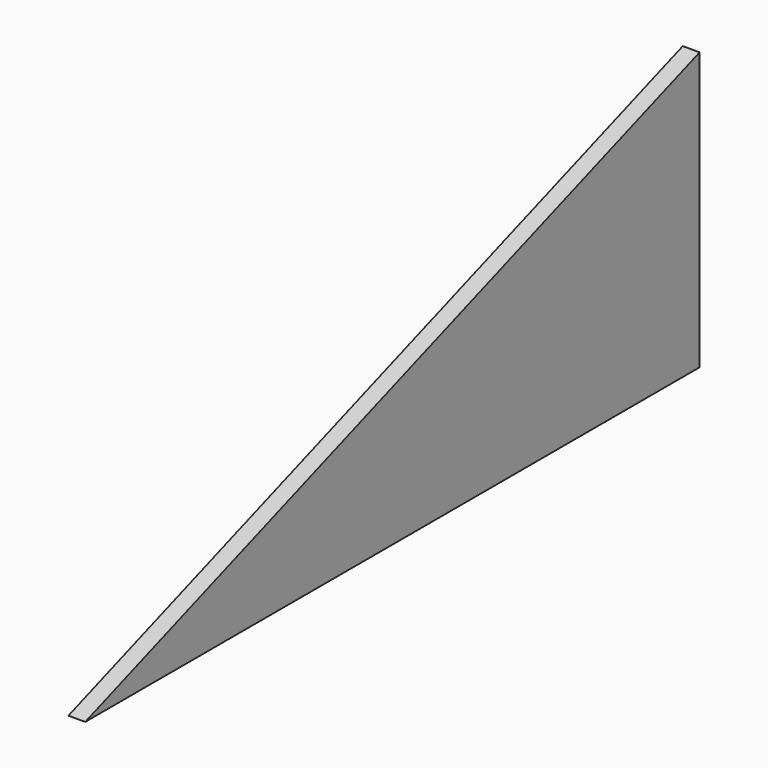
from build123d import *

# Parameters (mm, degrees)
F1_DEPTH = 19.05
F3_DEPTH = 25.4
F4_DEPTH = 3.175


with BuildPart() as f1:
    # F0 (on Right) → F1 (new body)
    with BuildSketch(Plane.YZ):
        with BuildLine():
            ThreePointArc((482.6, 127), (467.7210244843, 162.9210244843), (431.8, 177.8))
            Line((431.8, 177.8), (-482.6, -152.4))
            ThreePointArc((-482.6, -152.4), (-475.1605122421, -170.3605122421), (-457.2, -177.8))
            Line((-457.2, -177.8), (431.8, -177.8))
            ThreePointArc((431.8, -177.8), (467.7210244843, -162.9210244843), (482.6, -127))
            Line((482.6, -127), (482.6, 127))
        make_face()
    extrude(amount=F1_DEPTH)

    # F2 (on face) → F3 (cut)
    with BuildSketch(Plane.YZ.offset(19.05)):
        with BuildLine():
            Line((461.4467891453, 168.2517623063), (433.3557372898, 158.1077713585))
            Line((433.3557372898, 158.1077713585), (433.3557372898, -158.75))
            Line((433.3557372898, -158.75), (471.4557372898, -158.75))
            ThreePointArc((471.4557372898, -158.75), (479.733033778, -143.8245140446), (482.6, -127))
            Line((482.6, -127), (482.6, 127))
            ThreePointArc((482.6, 127), (477.0034118656, 150.1795503776), (461.4467891453, 168.2517623063))
        make_face()
        with BuildLine():
            Line((431.8, 177.8), (-25.4, 12.7))
            Line((-25.4, 12.7), (-18.929772965, -5.2175517891))
            Line((-18.929772965, -5.2175517891), (433.3557372898, 158.1077713585))
            Line((433.3557372898, 158.1077713585), (461.4467891453, 168.2517623063))
            ThreePointArc((461.4467891453, 168.2517623063), (447.3732218061, 175.3540563198), (431.8, 177.8))
        make_face()
        with BuildLine():
            Line((-18.929772965, -5.2175517891), (-25.4, 12.7))
            Line((-25.4, 12.7), (-482.6, -152.4))
            ThreePointArc((-482.6, -152.4), (-480.7436230259, -161.931936572), (-475.4458413533, -170.0705764849))
            Line((-475.4458413533, -170.0705764849), (-444.0965526259, -158.75))
            Line((-444.0965526259, -158.75), (-18.929772965, -5.2175517891))
        make_face()
        with BuildLine():
            Line((-12.7, -158.75), (-444.0965526259, -158.75))
            Line((-444.0965526259, -158.75), (-475.4458413533, -170.0705764849))
            ThreePointArc((-475.4458413533, -170.0705764849), (-467.1077585074, -175.7879524832), (-457.2, -177.8))
            Line((-457.2, -177.8), (-12.7, -177.8))
            Line((-12.7, -177.8), (-12.7, -158.75))
        make_face()
        with BuildLine():
            Line((471.4557372898, -158.75), (433.3557372898, -158.75))
            Line((433.3557372898, -158.75), (-12.7, -158.75))
            Line((-12.7, -158.75), (-12.7, -177.8))
            Line((-12.7, -177.8), (431.8, -177.8))
            ThreePointArc((431.8, -177.8), (453.7970452561, -172.7905011984), (471.4557372898, -158.75))
        make_face()
    extrude(amount=-F3_DEPTH, mode=Mode.SUBTRACT)

    # F4 (cut): a face of the model
    f4_faces = [f1.faces().sort_by_distance(p)[0] for p in [
        (9.525, -5.370407668, -0.3211143208),
    ]]
    extrude(f4_faces, amount=-F4_DEPTH, mode=Mode.SUBTRACT)


solid = f1.part
